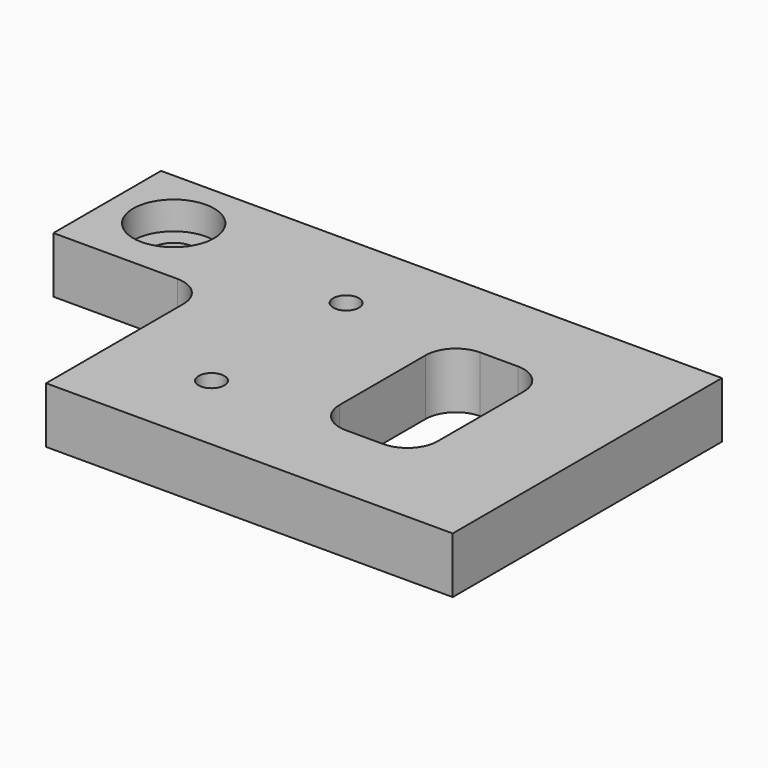
from build123d import *

# Parameters (mm, degrees)
F0_R     = 2.921
F0_R_2   = 4.7625
F1_DEPTH = 12.7
F2_R     = 9.144
F2_R_2   = 4.7625
F3_DEPTH = 6.35


with BuildPart() as f1:
    # F0 (on Top) → F1 (new body)
    with BuildSketch(Plane.XY):
        with BuildLine():
            Line((127, 0), (0, 0))
            Line((0, 0), (0, -30.48))
            Line((0, -30.48), (28.067, -30.48))
            ThreePointArc((28.067, -30.48), (32.916338, -32.488662), (34.925, -37.338))
            Line((34.925, -37.338), (34.925, -76.2))
            Line((34.925, -76.2), (127, -76.2))
            Line((127, -76.2), (127, 0))
        make_face()
        with Locations((57.15, -57.15)):
            Circle(F0_R, mode=Mode.SUBTRACT)
        with Locations((14.3002, -14.3002)):
            Circle(F0_R_2, mode=Mode.SUBTRACT)
        with Locations((57.15, -19.05)):
            Circle(F0_R, mode=Mode.SUBTRACT)
        with BuildLine():
            ThreePointArc((102.87, -50.292), (100.861338, -55.141338), (96.012, -57.15))
            Line((96.012, -57.15), (87.503, -57.15))
            ThreePointArc((87.503, -57.15), (82.653662, -55.141338), (80.645, -50.292))
            Line((80.645, -50.292), (80.645, -25.908))
            ThreePointArc((80.645, -25.908), (82.653662, -21.058662), (87.503, -19.05))
            Line((87.503, -19.05), (96.012, -19.05))
            ThreePointArc((96.012, -19.05), (100.861338, -21.058662), (102.87, -25.908))
            Line((102.87, -25.908), (102.87, -50.292))
        make_face(mode=Mode.SUBTRACT)
    extrude(amount=F1_DEPTH)

    # F2 (on face) → F3 (cut)
    with BuildSketch(Plane.XY.offset(12.7)):
        with Locations((14.3002, -14.3002)):
            Circle(F2_R)
        with Locations((14.3002, -14.3002)):
            Circle(F2_R_2, mode=Mode.SUBTRACT)
    extrude(amount=-F3_DEPTH, mode=Mode.SUBTRACT)


solid = f1.part
